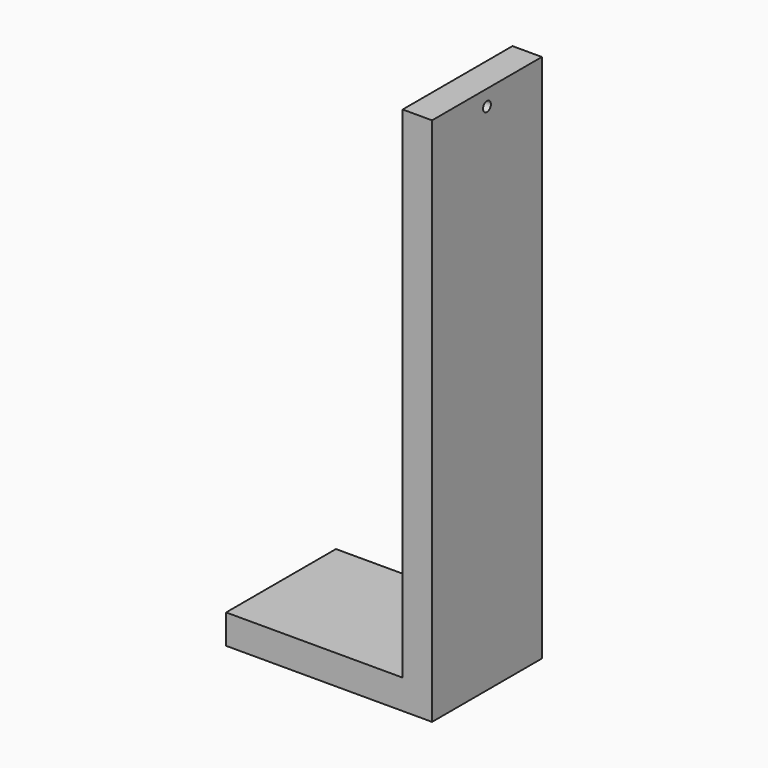
from build123d import *

# Parameters (mm, degrees)
F1_DEPTH = 88.9
F3_D     = 6.35


with BuildPart() as f1:
    # F0 (on Front) → F1 (new body)
    with BuildSketch(Plane.XZ):
        Polygon((-133.35, 0), (0, 0), (0, 342.9), (-19.05, 342.9), (-19.05, 19.05), (-133.35, 19.05), align=None)
    extrude(amount=F1_DEPTH)

    # F3 (through all)
    with Locations(Plane(origin=(-19.05, 0, 0), x_dir=(0, -1, 0), z_dir=(-1, 0, 0))):
        with Locations((44.45, 332.74)):
            Hole(F3_D / 2)


solid = f1.part
